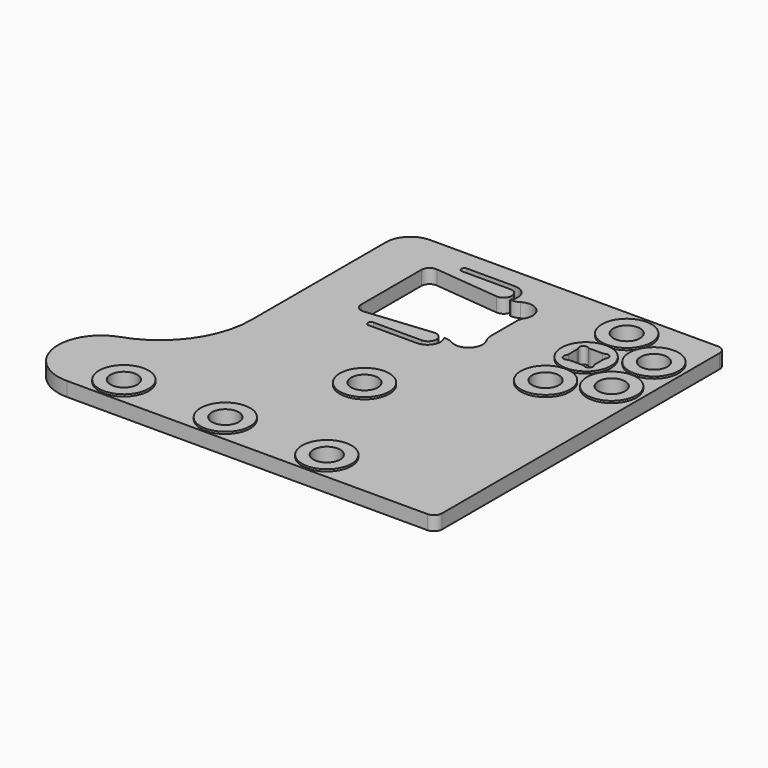
from build123d import *

# Parameters (mm, degrees)
SKETCH_R     = 6.6
PAD_DEPTH    = 8
SKETCH001_R  = 12.199475
POCKET_DEPTH = 1


with BuildPart() as part:
    # Sketch → Pad (new body)
    with BuildSketch(Plane.XY):
        with BuildLine():
            Line((-4, 40), (-146, 40))
            ThreePointArc((-146, 40), (-154.485281, 36.485281), (-158, 28))
            Line((-158, -55), (-158, 28))
            ThreePointArc((-188.565904, -97.622258), (-166.431336, -81.224661), (-158, -55))
            ThreePointArc((-188.565904, -97.622258), (-202.717412, -121.203739), (-181.74971, -139))
            Line((-181.74971, -139), (-4, -139))
            ThreePointArc((-4, -139), (-1.171573, -137.828427), (0, -135))
            Line((0, 36), (0, -135))
            ThreePointArc((0, 36), (-1.171573, 38.828427), (-4, 40))
        make_face()
        with Locations((-37, 25)):
            Circle(SKETCH_R, mode=Mode.SUBTRACT)
        with Locations((-37, -25)):
            Circle(SKETCH_R, mode=Mode.SUBTRACT)
        with Locations((-14, 13)):
            Circle(SKETCH_R, mode=Mode.SUBTRACT)
        with Locations((-14, -13)):
            Circle(SKETCH_R, mode=Mode.SUBTRACT)
        with Locations((-164, -126)):
            Circle(SKETCH_R, mode=Mode.SUBTRACT)
        with Locations((-114, -126)):
            Circle(SKETCH_R, mode=Mode.SUBTRACT)
        with Locations((-64, -126)):
            Circle(SKETCH_R, mode=Mode.SUBTRACT)
        with Locations((-90.2, -70)):
            Circle(SKETCH_R, mode=Mode.SUBTRACT)
        with BuildLine():
            Line((-40.101765, 6.2), (-33.898235, 6.2))
            ThreePointArc((-33.898235, 6.2), (-33.357039, 6.274615), (-32.856224, 6.492893))
            ThreePointArc((-30.107107, 3.743776), (-30.4, 6.2), (-32.856224, 6.492893))
            ThreePointArc((-30.107107, 3.743776), (-30.325385, 3.242961), (-30.4, 2.701765))
            Line((-30.4, 2.701765), (-30.4, -2.701765))
            ThreePointArc((-30.4, -2.701765), (-30.325385, -3.242961), (-30.107107, -3.743776))
            ThreePointArc((-32.856224, -6.492893), (-30.4, -6.2), (-30.107107, -3.743776))
            ThreePointArc((-32.856224, -6.492893), (-33.357039, -6.274615), (-33.898235, -6.2))
            Line((-33.898235, -6.2), (-40.101765, -6.2))
            ThreePointArc((-40.101765, -6.2), (-40.642961, -6.274615), (-41.143776, -6.492893))
            ThreePointArc((-43.892893, -3.743776), (-43.6, -6.2), (-41.143776, -6.492893))
            ThreePointArc((-43.892893, -3.743776), (-43.674615, -3.242961), (-43.6, -2.701765))
            Line((-43.6, -2.701765), (-43.6, 2.701765))
            ThreePointArc((-43.6, 2.701765), (-43.674615, 3.242961), (-43.892893, 3.743776))
            ThreePointArc((-41.143776, 6.492893), (-43.6, 6.2), (-43.892893, 3.743776))
            ThreePointArc((-41.143776, 6.492893), (-40.642961, 6.274615), (-40.101765, 6.2))
        make_face(mode=Mode.SUBTRACT)
        with BuildLine():
            Line((-90.7, 20.3), (-89.943823, 20.3))
            ThreePointArc((-89.943823, 20.3), (-88.049637, 20.561153), (-86.296785, 21.325126))
            ThreePointArc((-76.674874, 11.703215), (-77.700001, 20.3), (-86.296785, 21.325126))
            ThreePointArc((-76.674874, 11.703215), (-77.438847, 9.950364), (-77.7, 8.056178))
            Line((-77.7, 8.056178), (-77.7, -8.056178))
            ThreePointArc((-77.7, -8.056178), (-77.438847, -9.950365), (-76.674874, -11.703216))
            ThreePointArc((-86.296785, -21.325126), (-77.7, -20.3), (-76.674874, -11.703216))
            ThreePointArc((-86.296785, -21.325126), (-88.049636, -20.561153), (-89.943822, -20.3))
            Line((-90.7, -20.3), (-89.943822, -20.3))
            ThreePointArc((-96.2, -30.280093), (-90.502363, -26.91448), (-90.7, -20.3))
            Line((-96.2, -30.280093), (-120, -30.280093))
            ThreePointArc((-120, -27.280093), (-121.5, -28.780093), (-120, -30.280093))
            Line((-96.2, -27.280093), (-120, -27.280093))
            ThreePointArc((-96.2, -27.280093), (-92.20498, -23.080559), (-96.598572, -19.3))
            Line((-128.601428, -22.504808), (-96.598572, -19.3))
            ThreePointArc((-133, -18.524715), (-131.683814, -21.490713), (-128.601428, -22.504808))
            Line((-133, 18.524715), (-133, -18.524715))
            ThreePointArc((-128.601428, 22.504808), (-131.683814, 21.490713), (-133, 18.524715))
            Line((-128.601428, 22.504808), (-96.598572, 19.3))
            ThreePointArc((-96.598572, 19.3), (-92.20498, 23.080559), (-96.2, 27.280093))
            Line((-96.2, 27.280093), (-120, 27.280093))
            ThreePointArc((-120, 30.280093), (-121.5, 28.780093), (-120, 27.280093))
            Line((-96.2, 30.280093), (-120, 30.280093))
            ThreePointArc((-90.7, 20.3), (-90.502363, 26.91448), (-96.2, 30.280093))
        make_face(mode=Mode.SUBTRACT)
    extrude(amount=-PAD_DEPTH)

    # Sketch001 → Pocket (cut)
    with BuildSketch(Plane.XY):
        Polygon((5.517247, 44.094818), (5.517247, -142.525909), (-211.650055, -142.525909), (-211.650055, -44.465102), (-211.650055, 44.094818), align=None)
        with Locations((-37, -25)):
            Circle(SKETCH001_R, mode=Mode.SUBTRACT)
        with Locations((-14, 13)):
            Circle(SKETCH001_R, mode=Mode.SUBTRACT)
        with Locations((-14, -13)):
            Circle(SKETCH001_R, mode=Mode.SUBTRACT)
        with Locations((-37, 25)):
            Circle(SKETCH001_R, mode=Mode.SUBTRACT)
        with Locations((-114, -126)):
            Circle(SKETCH001_R, mode=Mode.SUBTRACT)
        with Locations((-90.2, -70)):
            Circle(SKETCH001_R, mode=Mode.SUBTRACT)
        with Locations((-64, -126)):
            Circle(SKETCH001_R, mode=Mode.SUBTRACT)
        with Locations((-164, -126)):
            Circle(SKETCH001_R, mode=Mode.SUBTRACT)
        with Locations((-37, 0)):
            Circle(SKETCH001_R, mode=Mode.SUBTRACT)
    extrude(amount=-POCKET_DEPTH, mode=Mode.SUBTRACT)


solid = part.part
